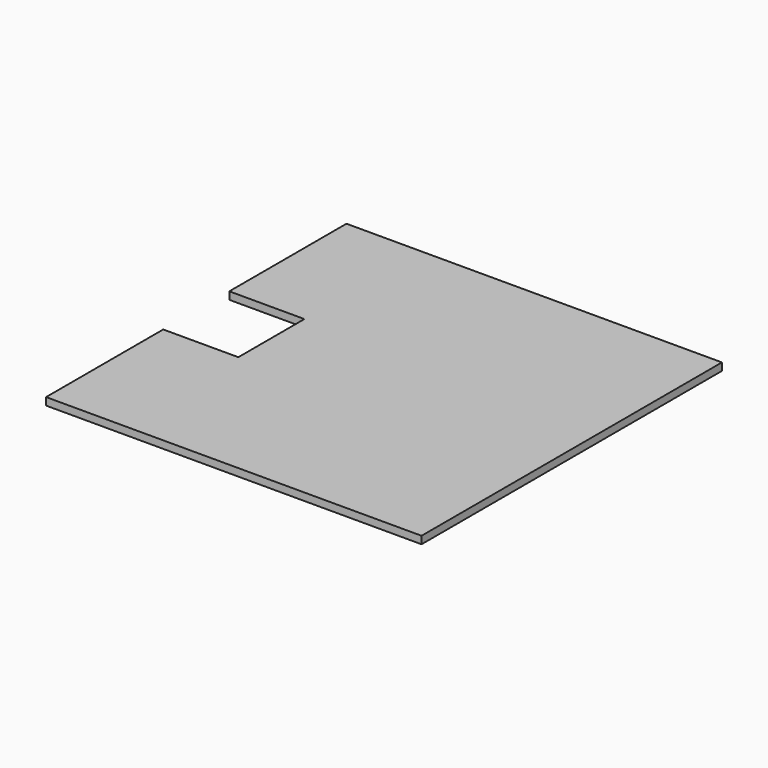
from build123d import *

# Parameters (mm, degrees)
F1_DEPTH = 1


with BuildPart() as f1:
    # F0 (on Top) → F1 (new body, symmetric)
    with BuildSketch(Plane.XY):
        Polygon((-50, -50), (50, -50), (50, 50), (-50, 50), (-50, 11), (-30, 11), (-30, -11), (-50, -11), align=None)
    extrude(amount=F1_DEPTH, both=True)


solid = f1.part
